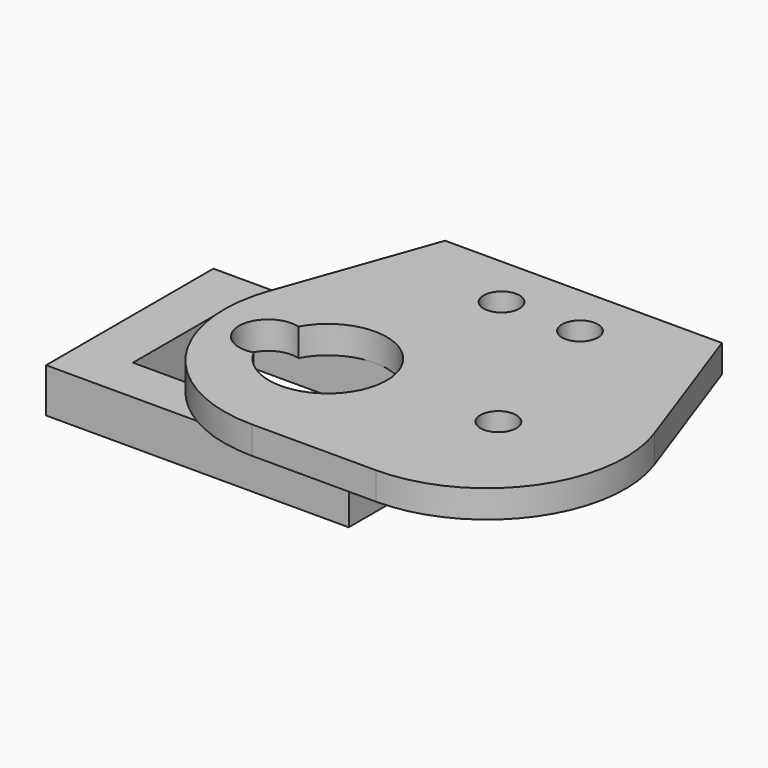
from build123d import *

# Parameters (mm, degrees)
SKETCH004_W      = 32.8
SKETCH004_H      = 22.66
SKETCH004_W_2    = 22.4
SKETCH004_H_2    = 12.76
EXTRUDE002_DEPTH = 4.8
SKETCH_R         = 3.15
EXTRUDE001_DEPTH = 5
SKETCH003_R      = 1.94
SKETCH003_R_2    = 6.38
EXTRUDE_DEPTH    = 3
FILLET_R         = 15


with BuildPart() as extrude002:
    # Sketch004 → Extrude002 (new body)
    with BuildSketch(Plane.XY):
        with Locations((13.69, 13.42)):
            Rectangle(SKETCH004_W, SKETCH004_H)
        with Locations((13.94, 13.42)):
            Rectangle(SKETCH004_W_2, SKETCH004_H_2, mode=Mode.SUBTRACT)
    extrude(amount=-EXTRUDE002_DEPTH)


with BuildPart() as extrude001:
    # Sketch (on Face5 of Fillet) → Extrude001 (new body, symmetric)
    with BuildSketch(Plane.XY.offset(3)):
        with Locations((12.283935, 13.42)):
            Circle(SKETCH_R)
    extrude(amount=EXTRUDE001_DEPTH, both=True)


with BuildPart() as fusion:
    # Sketch003 → Extrude (new body)
    with BuildSketch(Plane.XY):
        Polygon((0, 0), (13, 36.5), (43, 36.5), (56, 0), align=None)
        with Locations((23.75, 30.714505)):
            Circle(SKETCH003_R, mode=Mode.SUBTRACT)
        with Locations((32.25, 30.714505)):
            Circle(SKETCH003_R, mode=Mode.SUBTRACT)
        with Locations((37.24, 13.42)):
            Circle(SKETCH003_R, mode=Mode.SUBTRACT)
        with Locations((18.76, 13.42)):
            Circle(SKETCH003_R_2, mode=Mode.SUBTRACT)
    extrude(amount=EXTRUDE_DEPTH)

    # Fillet
    fillet_edges = [fusion.edges().sort_by_distance(p)[0] for p in [
        (0, 0, 1.5),
        (56, 0, 1.5),
    ]]
    fillet(fillet_edges, radius=FILLET_R)

    # Cut: cut Extrude001
    add(extrude001.part, mode=Mode.SUBTRACT)

    # Fusion: union Extrude002
    add(extrude002.part)


solid = fusion.part
